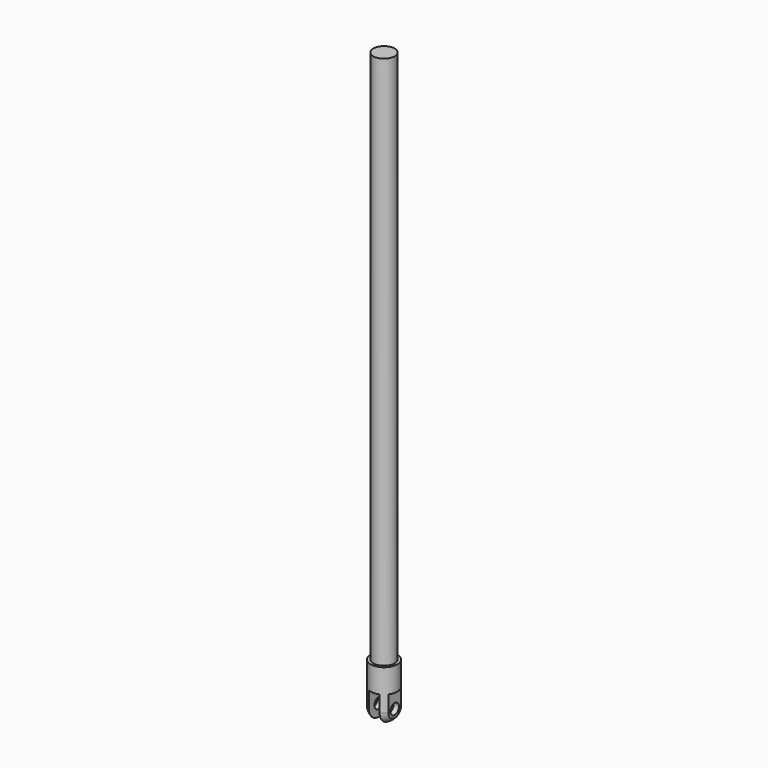
from build123d import *

# Parameters (mm, degrees)
F0_R     = 2
F1_DEPTH = 100
F2_R     = 2.5
F3_DEPTH = 10
F4_R     = 2.5
F5_W     = 0.722433
F5_H     = 5.884245
F5_W_2   = 2
F5_W_3   = 0.957619
F6_DEPTH = 3.08
F7_R     = 1
F8_DEPTH = 4.501


with BuildPart() as f1:
    # F0 (on Top) → F1 (new body)
    with BuildSketch(Plane.XY):
        Circle(F0_R)
    extrude(amount=F1_DEPTH)

    # F2 (on face) → F3 (join)
    with BuildSketch(Plane(origin=(0, 0, 0), x_dir=(1, 0, 0), z_dir=(0, 0, -1))):
        Circle(F2_R)
    extrude(amount=F3_DEPTH)

    # F4
    f4_edges = [f1.edges().sort_by_distance(p)[0] for p in [
        (-2.5, 0, -10),
    ]]
    fillet(f4_edges, radius=F4_R)

    # F5 (on Front) → F6 (cut, symmetric)
    with BuildSketch(Plane.XZ):
        with Locations((-2.361216, -7.442122)):
            Rectangle(F5_W, F5_H)
        with Locations((0, -7.442122)):
            Rectangle(F5_W_2, F5_H)
        with Locations((2.478809, -7.442122)):
            Rectangle(F5_W_3, F5_H)
    extrude(amount=F6_DEPTH, both=True, mode=Mode.SUBTRACT)

    # F7 (on face) → F8 (cut, through all)
    with BuildSketch(Plane(origin=(-2, 0, 0), x_dir=(0, -1, 0), z_dir=(-1, 0, 0))):
        with Locations((0, -7.5)):
            Circle(F7_R)
    extrude(amount=-F8_DEPTH, mode=Mode.SUBTRACT)


solid = f1.part
